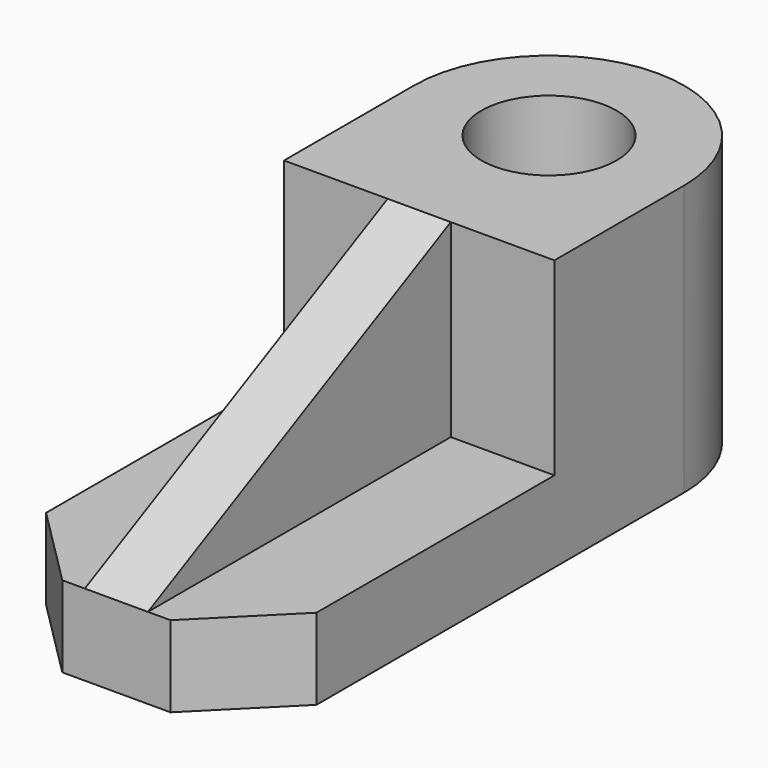
from build123d import *

# Parameters (mm, degrees)
F0_R     = 190.5
F1_DEPTH = 228.6
F2_R     = 190.5
F3_DEPTH = 533.4
F5_DEPTH = 88.9
F6_SIZE  = 228.6
F7_SIZE  = 228.6


with BuildPart() as f1:
    # F0 (on Top) → F1 (new body)
    with BuildSketch(Plane.XY):
        with BuildLine():
            Line((-381, 0), (0, 0))
            Line((0, 0), (381, 0))
            Line((381, 0), (381, 1524))
            ThreePointArc((381, 1524), (269.4076836321, 1793.4076836321), (0, 1905))
            ThreePointArc((0, 1905), (-269.4076836321, 1793.4076836321), (-381, 1524))
            Line((-381, 1524), (-381, 0))
        make_face()
        with Locations((0, 1524)):
            Circle(F0_R, mode=Mode.SUBTRACT)
    extrude(amount=-F1_DEPTH)

    # F2 (on face) → F3 (join)
    with BuildSketch(Plane.XY):
        with BuildLine():
            ThreePointArc((-381, 1524), (0, 1143), (381, 1524))
            ThreePointArc((381, 1524), (0, 1905), (-381, 1524))
        make_face()
        with Locations((0, 1524)):
            Circle(F2_R, mode=Mode.SUBTRACT)
        with BuildLine():
            Line((381, 1066.8), (381, 1524))
            ThreePointArc((381, 1524), (0, 1143), (-381, 1524))
            Line((-381, 1524), (-381, 1066.8))
            Line((-381, 1066.8), (381, 1066.8))
        make_face()
    extrude(amount=F3_DEPTH)

    # F4 (on Right) → F5 (join, symmetric)
    with BuildSketch(Plane.YZ):
        Polygon((1066.8, 533.4), (0, 0), (1066.8, 0), align=None)
    extrude(amount=F5_DEPTH, both=True)

    # F6
    f6_edges = [f1.edges().sort_by_distance(p)[0] for p in [
        (-381, 0, -114.3),
    ]]
    chamfer(f6_edges, length=F6_SIZE)

    # F7
    f7_edges = [f1.edges().sort_by_distance(p)[0] for p in [
        (381, 0, -114.3),
    ]]
    chamfer(f7_edges, length=F7_SIZE)


solid = f1.part
